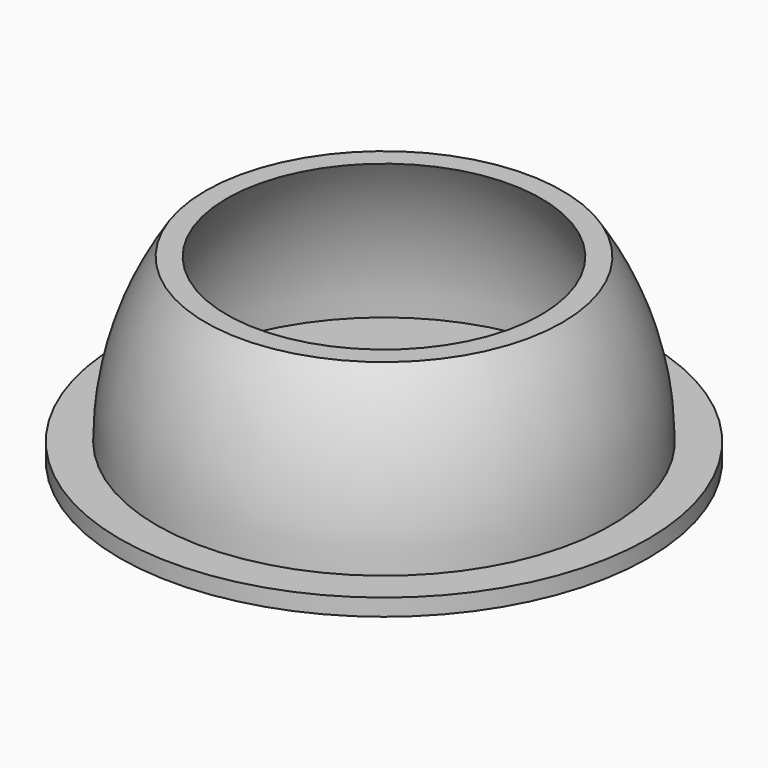
from build123d import *

# Parameters (mm, degrees)
F2_R     = 10.125
F3_DEPTH = 25


with BuildPart() as f1:
    # F0 (on Front) → F1 (revolve)
    with BuildSketch(Plane.XZ):
        with BuildLine():
            Line((-25, 0), (0, 0))
            Line((0, 0), (0, 1.6))
            Line((0, 1.6), (-19.852639, 1.6))
            ThreePointArc((-19.852639, 1.6), (-18.579897, 9.690756), (-14.88461, 17))
            Line((-14.88461, 17), (-16.88461, 17))
            ThreePointArc((-16.88461, 17), (-20.321345, 9.638374), (-21.5, 1.6))
            Line((-21.5, 1.6), (-25, 1.6))
            Line((-25, 1.6), (-25, 0))
        make_face()
    revolve(axis=Axis((0, 0, 25.227906), (0, 0, 1)))

    # F2 (on face) → F3 (cut)
    with BuildSketch(Plane.XY.offset(1.6)):
        Circle(F2_R)
    extrude(amount=-F3_DEPTH, mode=Mode.SUBTRACT)


solid = f1.part
